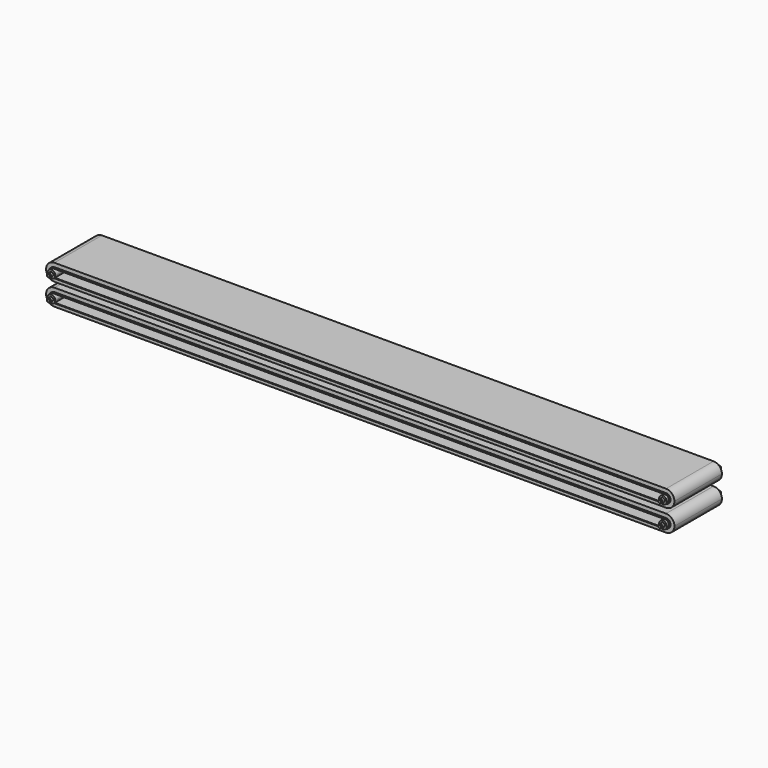
from build123d import *

# Parameters (mm, degrees)
F1_DEPTH = 304.8
F2_DEPTH = 292.1
F0_R     = 19.05
F3_DEPTH = 330.2
F4_DEPTH = 355.6
F5_DEPTH = 368.3
F6_DEPTH = 330.2
F7_DEPTH = 355.6
F8_DEPTH = 368.3


with BuildPart() as f1:
    # F0 (on Front) → F1 (new body, symmetric)
    with BuildSketch(Plane.XZ):
        with BuildLine():
            Line((3009.9, 44.45), (-3009.9, 44.45))
            ThreePointArc((-3009.9, 44.45), (-3041.330896, 31.430896), (-3054.35, 0))
            ThreePointArc((-3054.35, 0), (-3041.330896, -31.430896), (-3009.9, -44.45))
            Line((-3009.9, -44.45), (3009.9, -44.45))
            ThreePointArc((3009.9, -44.45), (3041.330896, -31.430896), (3054.35, 0))
            ThreePointArc((3054.35, 0), (3041.330896, 31.430896), (3009.9, 44.45))
        make_face()
        with BuildLine():
            ThreePointArc((-3048, 0), (-3036.840768, 26.940768), (-3009.9, 38.1))
            Line((-3009.9, 38.1), (-2874.632359, 38.1))
            Line((-2874.632359, 38.1), (2611.767641, 38.1))
            Line((2611.767641, 38.1), (3009.9, 38.1))
            ThreePointArc((3009.9, 38.1), (3036.840768, 26.940768), (3048, 0))
            ThreePointArc((3048, 0), (3036.840768, -26.940768), (3009.9, -38.1))
            Line((3009.9, -38.1), (-3009.9, -38.1))
            ThreePointArc((-3009.9, -38.1), (-3036.840768, -26.940768), (-3048, 0))
        make_face(mode=Mode.SUBTRACT)
    extrude(amount=F1_DEPTH, both=True)


with BuildPart() as f2:
    # F0 (on Front) → F2 (new body, symmetric)
    with BuildSketch(Plane.XZ):
        with BuildLine():
            ThreePointArc((3009.9, -82.55), (3068.271665, -58.371665), (3092.45, 0))
            ThreePointArc((3092.45, 0), (3068.271665, 58.371665), (3009.9, 82.55))
            Line((3009.9, 82.55), (-3009.9, 82.55))
            ThreePointArc((-3009.9, 82.55), (-3068.271665, 58.371665), (-3092.45, 0))
            ThreePointArc((-3092.45, 0), (-3068.271665, -58.371665), (-3009.9, -82.55))
            Line((-3009.9, -82.55), (3009.9, -82.55))
        make_face()
        with BuildLine():
            ThreePointArc((-3054.35, 0), (-3041.330896, 31.430896), (-3009.9, 44.45))
            Line((-3009.9, 44.45), (3009.9, 44.45))
            ThreePointArc((3009.9, 44.45), (3041.330896, 31.430896), (3054.35, 0))
            ThreePointArc((3054.35, 0), (3041.330896, -31.430896), (3009.9, -44.45))
            Line((3009.9, -44.45), (-3009.9, -44.45))
            ThreePointArc((-3009.9, -44.45), (-3041.330896, -31.430896), (-3054.35, 0))
        make_face(mode=Mode.SUBTRACT)
    extrude(amount=F2_DEPTH, both=True)


with BuildPart() as f3:
    # F0 (on Front) → F3 (new body, symmetric)
    with BuildSketch(Plane.XZ):
        with BuildLine():
            ThreePointArc((3048, 0), (3036.840768, 26.940768), (3009.9, 38.1))
            ThreePointArc((3009.9, 38.1), (2971.8, 0), (3009.9, -38.1))
            ThreePointArc((3009.9, -38.1), (3036.840768, -26.940768), (3048, 0))
        make_face()
        with Locations((3009.9, 0)):
            Circle(F0_R, mode=Mode.SUBTRACT)
    extrude(amount=F3_DEPTH, both=True)

    # F0 (on Front) → F4 (join, symmetric)
    with BuildSketch(Plane.XZ):
        with Locations((3009.9, 0)):
            Circle(F0_R)
        Polygon((3009.9, -14.664697), (2997.2, -7.332348), (2997.2, 7.332348), (3009.9, 14.664697), (3022.6, 7.332348), (3022.6, -7.332348), align=None, mode=Mode.SUBTRACT)
    extrude(amount=F4_DEPTH, both=True)

    # F0 (on Front) → F5 (join, symmetric)
    with BuildSketch(Plane.XZ):
        Polygon((2997.2, 7.332348), (2997.2, -7.332348), (3009.9, -14.664697), (3022.6, -7.332348), (3022.6, 7.332348), (3009.9, 14.664697), align=None)
    extrude(amount=F5_DEPTH, both=True)


with BuildPart() as f6:
    # F0 (on Front) → F6 (new body, symmetric)
    with BuildSketch(Plane.XZ):
        with BuildLine():
            ThreePointArc((-2971.8, 0), (-2982.959232, 26.940768), (-3009.9, 38.1))
            ThreePointArc((-3009.9, 38.1), (-3036.840768, 26.940768), (-3048, 0))
            ThreePointArc((-3048, 0), (-3036.840768, -26.940768), (-3009.9, -38.1))
            ThreePointArc((-3009.9, -38.1), (-2982.959232, -26.940768), (-2971.8, 0))
        make_face()
        with Locations((-3009.9, 0)):
            Circle(F0_R, mode=Mode.SUBTRACT)
    extrude(amount=F6_DEPTH, both=True)

    # F0 (on Front) → F7 (join, symmetric)
    with BuildSketch(Plane.XZ):
        with Locations((-3009.9, 0)):
            Circle(F0_R)
        Polygon((-3009.9, 14.664697), (-2997.2, 7.332348), (-2997.2, -7.332348), (-3009.9, -14.664697), (-3022.6, -7.332348), (-3022.6, 7.332348), align=None, mode=Mode.SUBTRACT)
    extrude(amount=F7_DEPTH, both=True)

    # F0 (on Front) → F8 (join, symmetric)
    with BuildSketch(Plane.XZ):
        Polygon((-2997.2, -7.332348), (-2997.2, 7.332348), (-3009.9, 14.664697), (-3022.6, 7.332348), (-3022.6, -7.332348), (-3009.9, -14.664697), align=None)
    extrude(amount=F8_DEPTH, both=True)


with BuildPart() as f10_1:
    # F10: instance of F2
    add(f2.part.mirror(Plane(origin=(0, -146.05, 107.95), x_dir=(1, 0, 0), z_dir=(0, 0, 1))))


with BuildPart() as f10_2:
    # F10: instance of F1
    add(f1.part.mirror(Plane(origin=(0, -146.05, 107.95), x_dir=(1, 0, 0), z_dir=(0, 0, 1))))


with BuildPart() as f10_3:
    # F10: instance of F3
    add(f3.part.mirror(Plane(origin=(0, -146.05, 107.95), x_dir=(1, 0, 0), z_dir=(0, 0, 1))))


with BuildPart() as f10_4:
    # F10: instance of F6
    add(f6.part.mirror(Plane(origin=(0, -146.05, 107.95), x_dir=(1, 0, 0), z_dir=(0, 0, 1))))


solid = Compound([f1.part, f2.part, f3.part, f6.part, f10_1.part, f10_2.part, f10_3.part, f10_4.part])
